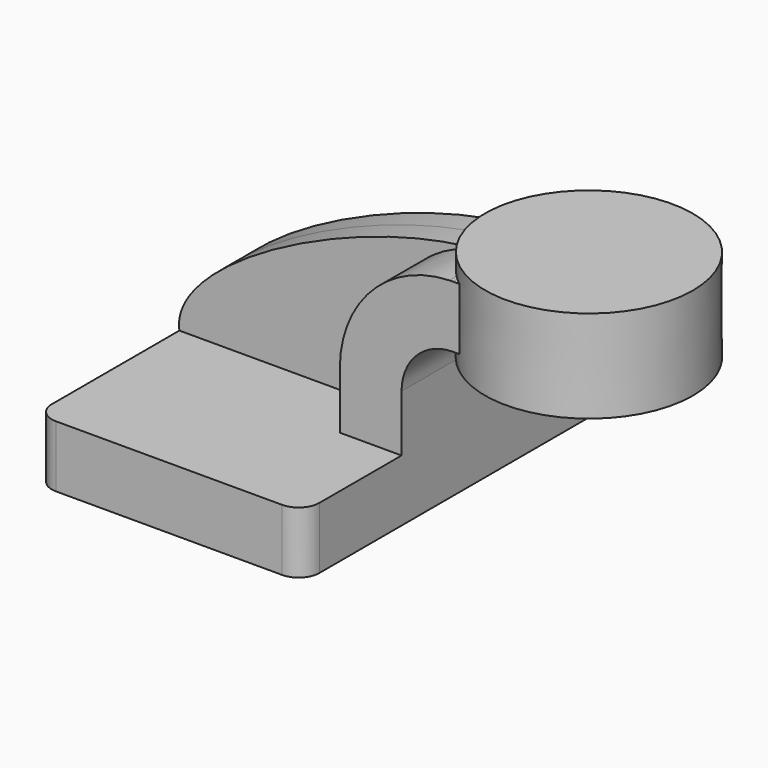
from build123d import *

# Parameters (mm, degrees)
F1_DEPTH = 63.5
F2_DEPTH = 25.4
F3_DEPTH = 7.9375
F5_R     = 6.35


with BuildPart() as f1:
    # F0 (on Front) → F1 (new body, symmetric)
    with BuildSketch(Plane.XZ):
        Polygon((41.275, -9.525), (41.275, 9.525), (22.225, 9.525), (-41.275, 9.525), (-41.275, -9.525), align=None)
    extrude(amount=F1_DEPTH, both=True)

    # F0 (on Front) → F2 (join, symmetric)
    with BuildSketch(Plane.XZ):
        with BuildLine():
            Line((22.225, 9.525), (41.275, 9.525))
            Line((41.275, 9.525), (41.275, 27.0002))
            ThreePointArc((41.275, 27.0002), (45.9246798487, 38.2255201513), (57.15, 42.8752))
            Line((57.15, 42.8752), (60.0982093367, 42.8752))
            Line((60.0982093367, 42.8752), (60.0982093367, 61.9252))
            Line((60.0982093367, 61.9252), (57.15, 61.9252))
            add(Edge.make_bspline(
                [(56.0381595364, 61.9074977439), (56.4108675509, 61.9161651955), (56.7815065443, 61.9220777941), (57.15, 61.9252)],
                knots=[110.4471262045, 110.4471262045, 110.4471262045, 110.4471262045, 111.5045361635, 111.5045361635, 111.5045361635, 111.5045361635], degree=3))
            ThreePointArc((56.0381595364, 61.9074977439), (32.064280425, 51.2996300016), (22.225, 27.0002))
            Line((22.225, 27.0002), (22.225, 9.525))
        make_face()
        Polygon((60.0982093367, 61.9252), (60.0982093367, 42.8752), (78.7747351631, 42.8752), (78.8008907845, 61.9252), align=None)
    extrude(amount=F2_DEPTH, both=True)

    # F0 (on Front) → F3 (join, symmetric)
    with BuildSketch(Plane.XZ):
        with BuildLine():
            Line((-41.275, 9.525), (22.225, 9.525))
            Line((22.225, 9.525), (22.225, 27.0002))
            ThreePointArc((22.225, 27.0002), (32.064280425, 51.2996300016), (56.0381595364, 61.9074977439))
            add(Edge.make_bspline(
                [(-41.275, 9.525), (-44.3938878809, 30.0415972741), (17.1085761993, 61.002177049), (56.0381595364, 61.9074977439)],
                knots=[0, 0, 0, 0, 110.4471262045, 110.4471262045, 110.4471262045, 110.4471262045], degree=3))
        make_face()
    extrude(amount=F3_DEPTH, both=True)

    # F0 (on Front) → F4 (revolve)
    with BuildSketch(Plane.XZ):
        Polygon((78.8008907845, 61.9252), (78.7747351631, 42.8752), (78.7681788206, 38.1), (110.8982093367, 38.1), (110.8982093367, 66.675), (78.8074122528, 66.675), align=None)
    revolve(axis=Axis((78.7877955367, 0, 52.3875), (0.0013729972, 0, 0.9999990574)))

    # F5
    f5_edges = [f1.edges().sort_by_distance(p)[0] for p in [
        (41.275, -63.5, 0),
        (-41.275, -63.5, 0),
        (41.275, 63.5, 0),
        (-41.275, 63.5, 0),
    ]]
    fillet(f5_edges, radius=F5_R)


solid = f1.part
